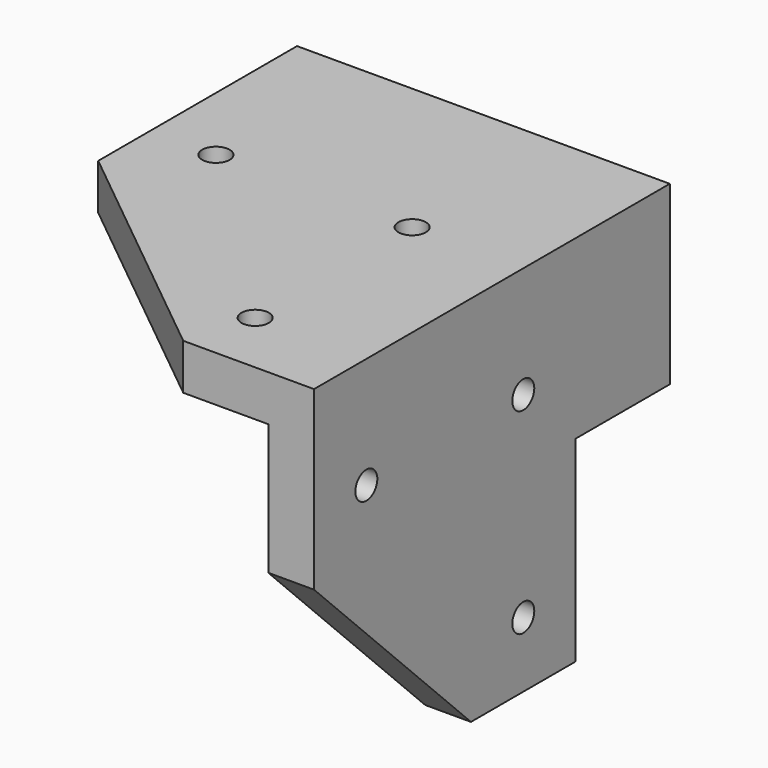
from build123d import *

# Parameters (mm, degrees)
SKETCH_R        = 2.1
PAD_DEPTH       = 7
SKETCH001_R     = 2.1
PAD001_DEPTH    = 7
SKETCH002_R     = 2.1
SKETCH002_R_2   = 2.15
PAD002_DEPTH    = 18
SKETCH003_R     = 2.15
PAD003_DEPTH    = 13
SKETCH004_R     = 3.6
POCKET_DEPTH    = 10
POCKET001_DEPTH = 10


with BuildPart() as part:
    # Sketch → Pad (new body)
    with BuildSketch(Plane.XY):
        Polygon((-40, 10), (-40, -10), (-3, -40), (17, -40), (17, 10), align=None)
        Circle(SKETCH_R, mode=Mode.SUBTRACT)
        with Locations((0, -30)):
            Circle(SKETCH_R, mode=Mode.SUBTRACT)
        with Locations((-30, 0)):
            Circle(SKETCH_R, mode=Mode.SUBTRACT)
    extrude(amount=PAD_DEPTH)

    # Sketch001 → Pad001 (new body)
    with BuildSketch(Plane.YZ.offset(17)):
        Polygon((10, 0), (10, -50), (-10, -50), (-40, -20), (-40, 0), align=None)
        with Locations((0, -10)):
            Circle(SKETCH001_R, mode=Mode.SUBTRACT)
        with Locations((0, -40)):
            Circle(SKETCH001_R, mode=Mode.SUBTRACT)
        with Locations((-30, -10)):
            Circle(SKETCH001_R, mode=Mode.SUBTRACT)
    extrude(amount=-PAD001_DEPTH)

    # Sketch002 → Pad002 (new body)
    with BuildSketch(Plane(origin=(0, 10, 0), x_dir=(-1, 0, 0), z_dir=(0, 1, 0))):
        with BuildLine():
            Line((-17, 7), (40, 7))
            Line((40, 7), (40, -20))
            Line((40, -20), (19.841684, -20))
            ThreePointArc((19.841684, -20), (17.941895, -20.678202), (16.901061, -22.406155))
            ThreePointArc((7.098939, -22.406155), (12, -26.416408), (16.901061, -22.406155))
            ThreePointArc((7.098939, -22.406155), (6.058105, -20.678202), (4.158316, -20))
            Line((-17, -20), (4.158316, -20))
            Line((-17, -20), (-17, 7))
        make_face()
        with Locations((30, -10)):
            Circle(SKETCH002_R, mode=Mode.SUBTRACT)
        with Locations((-12, -13)):
            Circle(SKETCH002_R_2, mode=Mode.SUBTRACT)
        with Locations((15, 0)):
            Circle(SKETCH002_R_2, mode=Mode.SUBTRACT)
        with Locations((-12, 0)):
            Circle(SKETCH002_R_2, mode=Mode.SUBTRACT)
        with Locations((0, -8)):
            Circle(SKETCH002_R_2, mode=Mode.SUBTRACT)
        with Locations((12, -21.416408)):
            Circle(SKETCH002_R_2, mode=Mode.SUBTRACT)
    extrude(amount=PAD002_DEPTH)

    # Sketch003 → Pad003 (new body)
    with BuildSketch(Plane.XZ.offset(-10)):
        with Locations((-15, 0)):
            Circle(SKETCH003_R)
        with Locations((12, 0)):
            Circle(SKETCH003_R)
        with Locations((12, -13)):
            Circle(SKETCH003_R)
    extrude(amount=-PAD003_DEPTH)

    # Sketch004 → Pocket (cut)
    with BuildSketch(Plane(origin=(0, 28, 0), x_dir=(-1, 0, 0), z_dir=(0, 1, 0))):
        with Locations((30, -10)):
            Circle(SKETCH004_R)
    extrude(amount=-POCKET_DEPTH, mode=Mode.SUBTRACT)

    # Sketch005 → Pocket001 (cut)
    with BuildSketch(Plane.XZ.offset(-10)):
        Polygon((2.049593, -11.55), (4.099187, -8), (2.049593, -4.45), (-2.049593, -4.45), (-4.099187, -8), (-2.049593, -11.55), align=None)
    extrude(amount=-POCKET001_DEPTH, mode=Mode.SUBTRACT)


solid = part.part
